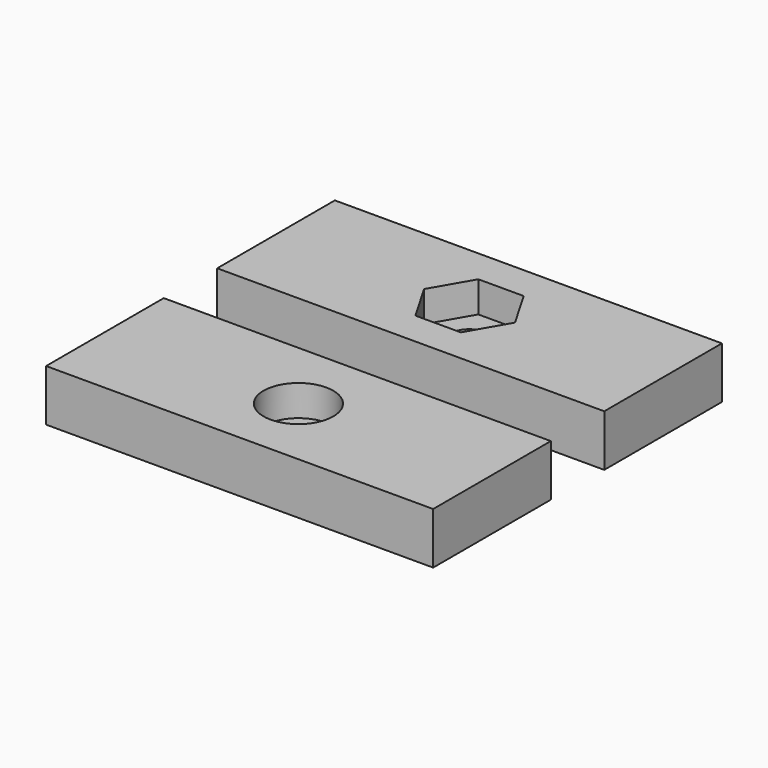
from build123d import *

# Parameters (mm, degrees)
F0_W     = 30
F0_H     = 11.4
F0_R     = 2.7
F1_DEPTH = 4
F0_R_2   = 1.55
F2_DEPTH = 1.6


with BuildPart() as f1:
    # F0 (on Top) → F1 (new body)
    with BuildSketch(Plane.XY):
        with Locations((-1.178198, -1.946505)):
            Rectangle(F0_W, F0_H)
        Polygon((2.343639, -1.946505), (0.582721, -4.996505), (-2.939116, -4.996505), (-4.700034, -1.946505), (-2.939116, 1.103495), (0.582721, 1.103495), align=None, mode=Mode.SUBTRACT)
        with Locations((-1.262082, -18.419137)):
            Rectangle(F0_W, F0_H)
        with Locations((-1.262082, -18.419137)):
            Circle(F0_R, mode=Mode.SUBTRACT)
    extrude(amount=F1_DEPTH)

    # F0 (on Top) → F2 (join)
    with BuildSketch(Plane.XY):
        Polygon((-2.939116, -4.996505), (0.582721, -4.996505), (2.343639, -1.946505), (0.582721, 1.103495), (-2.939116, 1.103495), (-4.700034, -1.946505), align=None)
        with Locations((-1.178198, -1.946505)):
            Circle(F0_R_2, mode=Mode.SUBTRACT)
        with Locations((-1.262082, -18.419137)):
            Circle(F0_R)
        with Locations((-1.262082, -18.419137)):
            Circle(F0_R_2, mode=Mode.SUBTRACT)
    extrude(amount=F2_DEPTH)


solid = f1.part
